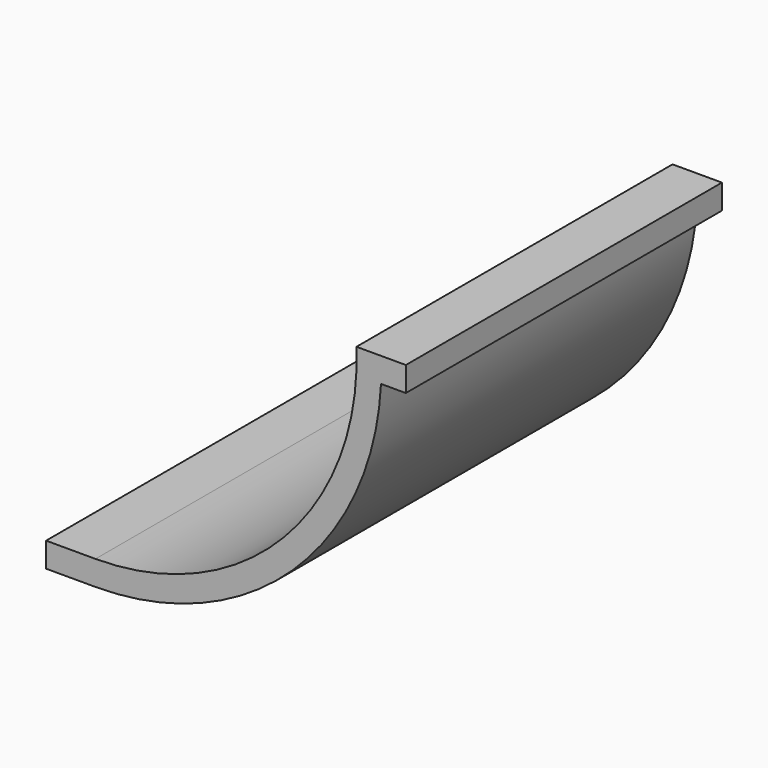
from build123d import *

# Parameters (mm, degrees)
F0_W     = 12.7
F0_H     = 6.35
F1_DEPTH = 101.6


with BuildPart() as f1:
    # F0 (on Front) → F1 (new body)
    with BuildSketch(Plane.XZ):
        with BuildLine():
            Line((-53.092392, -56.184247), (-53.092392, -62.534247))
            ThreePointArc((-53.092392, -62.534247), (-2.420015, -42.282483), (20.336053, 7.315753))
            Line((20.336053, 7.315753), (14.024234, 7.315753))
            Line((14.024234, 7.315753), (14.024234, 8.305968))
            ThreePointArc((14.024234, 8.305968), (-6.553082, -37.448797), (-53.092392, -56.184247))
        make_face()
        with BuildLine():
            Line((14.024234, 7.315753), (20.336053, 7.315753))
            ThreePointArc((20.336053, 7.315753), (20.426045, 10.490291), (20.378857, 13.665753))
            Line((20.378857, 13.665753), (14.024234, 13.665753))
            ThreePointArc((14.024234, 13.665753), (14.077716, 10.98586), (14.024234, 8.305968))
            Line((14.024234, 8.305968), (14.024234, 7.315753))
        make_face()
        with BuildLine():
            ThreePointArc((20.378857, 13.665753), (20.426045, 10.490291), (20.336053, 7.315753))
            Line((20.336053, 7.315753), (26.724234, 7.315753))
            Line((26.724234, 7.315753), (26.724234, 13.665753))
            Line((26.724234, 13.665753), (20.378857, 13.665753))
        make_face()
        with Locations((-59.442392, -59.359247)):
            Rectangle(F0_W, F0_H)
    extrude(amount=F1_DEPTH)


solid = f1.part
